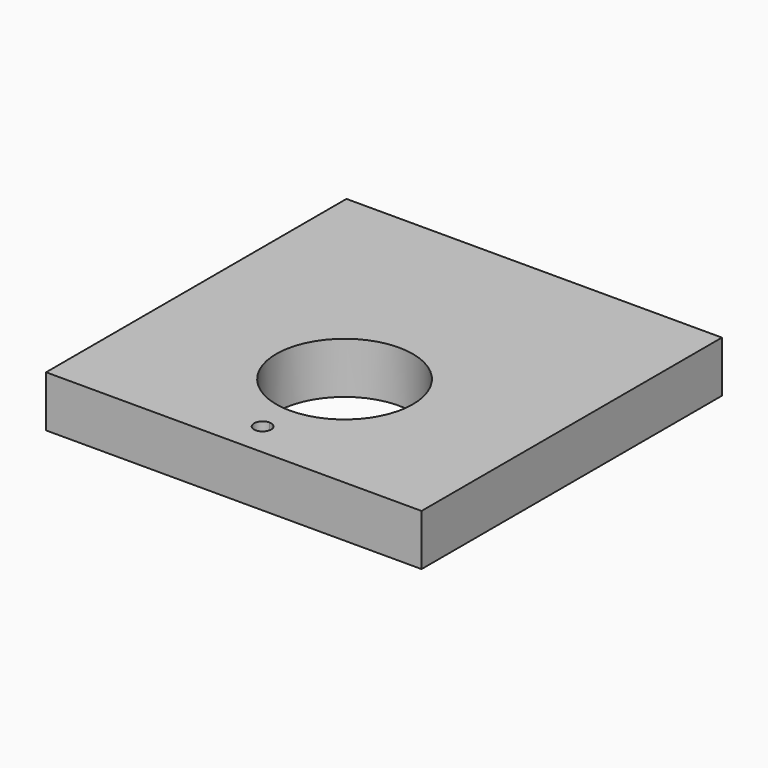
from build123d import *

# Parameters (mm, degrees)
F1_DEPTH = 19.05


with BuildPart() as f1:
    # F0 (on Top) → F1 (new body)
    with BuildSketch(Plane.XY):
        with BuildLine():
            ThreePointArc((25.4, -18.909384), (-17.960512, -0.948871), (0, -44.309384))
            ThreePointArc((0, -44.309384), (17.960512, -36.869896), (25.4, -18.909384))
        make_face()
        Polygon((69.287541, -69.709384), (69.287541, 69.990616), (-70.412459, 69.990616), (-70.412459, -69.709384), (0, -69.709384), align=None)
        with BuildLine():
            ThreePointArc((3.175, -57.009384), (2.245064, -59.254448), (0, -60.184384))
            ThreePointArc((0, -60.184384), (-3.175, -57.009384), (0, -53.834384))
            ThreePointArc((0, -53.834384), (2.245064, -54.76432), (3.175, -57.009384))
        make_face(mode=Mode.SUBTRACT)
        with BuildLine():
            ThreePointArc((25.4, -18.909384), (17.960512, -36.869896), (0, -44.309384))
            ThreePointArc((0, -44.309384), (-17.960512, -0.948871), (25.4, -18.909384))
        make_face(mode=Mode.SUBTRACT)
    extrude(amount=F1_DEPTH)


solid = f1.part
